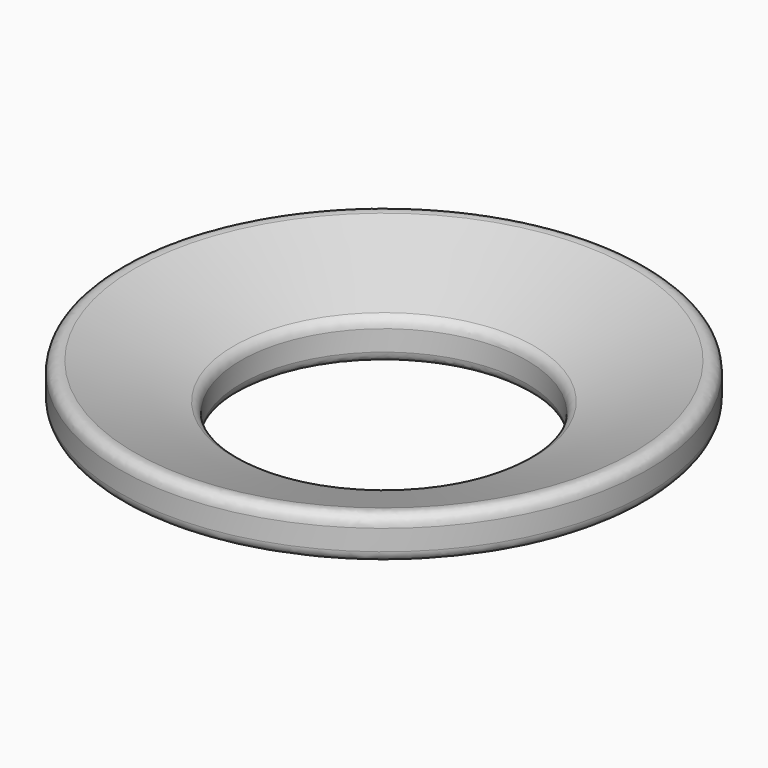
from build123d import *

# Parameters (mm, degrees)
F2_R = 0.25


with BuildPart() as f1:
    # F0 (on Right) → F1 (revolve)
    with BuildSketch(Plane.YZ):
        Polygon((3.25, 0), (6, 1), (6, 2), (3.25, 1), align=None)
    revolve(axis=Axis((0, 0, -1.821089), (0, 0, -1)))

    # F2
    f2_edges = [f1.edges().sort_by_distance(p)[0] for p in [
        (0, -3.25, 0),
        (0, -6, 2),
        (0, -3.25, 1),
        (0, -6, 1),
    ]]
    fillet(f2_edges, radius=F2_R)


solid = f1.part
